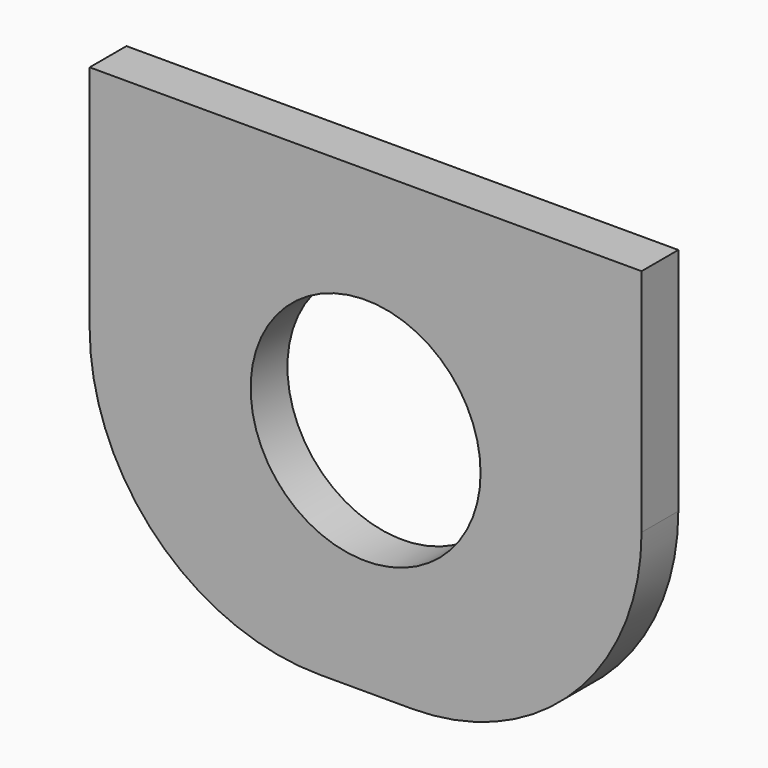
from build123d import *

# Parameters (mm, degrees)
F0_W     = 120
F0_H     = 100
F0_R     = 25
F1_DEPTH = 10
F2_R     = 50


with BuildPart() as f1:
    # F0 (on Front) → F1 (new body)
    with BuildSketch(Plane.XZ):
        Rectangle(F0_W, F0_H)
        Circle(F0_R, mode=Mode.SUBTRACT)
    extrude(amount=F1_DEPTH)

    # F2
    f2_edges = [f1.edges().sort_by_distance(p)[0] for p in [
        (-60, -5, -50),
        (60, -5, -50),
    ]]
    fillet(f2_edges, radius=F2_R)


solid = f1.part
